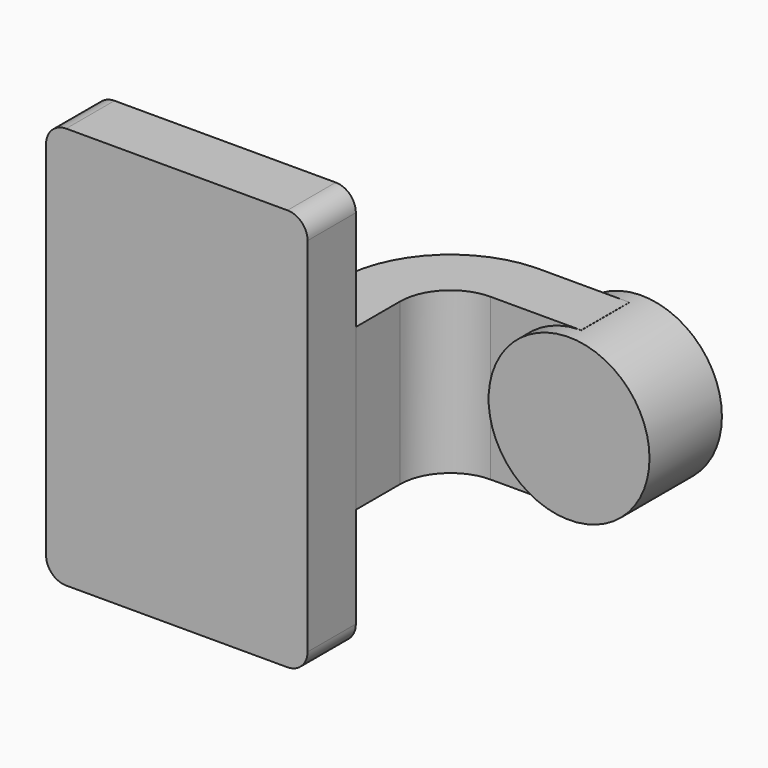
from build123d import *

# Parameters (mm, degrees)
F2_DEPTH = 7.9375
F0_W     = 25.4
F0_H     = 19.05
F3_DEPTH = 25.4
F0_W_2   = 82.55
F0_H_2   = 12.7
F4_DEPTH = 63.5
F5_R     = 6.35


with BuildPart() as f1:
    # F0 (on Top) → F1 (revolve)
    with BuildSketch(Plane.XY):
        Polygon((85.725, 66.675), (85.725, 61.9252), (85.725, 42.8752), (85.725, 38.1), (111.125, 38.1), (111.125, 66.675), align=None)
    revolve(axis=Axis((85.725, 52.3875, 0), (0, -1, 0)))


with BuildPart() as f2:
    # F0 (on Top) → F2 (new body, symmetric)
    with BuildSketch(Plane.XY):
        with BuildLine():
            add(Edge.make_bspline(
                [(-41.275, 9.525), (-38.003408, 26.588724), (-0.569577, 60.609758), (55.863186, 61.901486)],
                knots=[0, 0, 0, 0, 110.665519, 110.665519, 110.665519, 110.665519], degree=3))
            Line((-41.275, 9.525), (22.225, 9.525))
            Line((22.225, 9.525), (22.225, 27.0002))
            ThreePointArc((22.225, 27.0002), (32.003453, 51.236677), (55.863186, 61.901486))
        make_face()
    extrude(amount=F2_DEPTH, both=True)


with BuildPart() as f3:
    # F0 (on Top) → F3 (new body, symmetric)
    with BuildSketch(Plane.XY):
        with BuildLine():
            Line((22.225, 27.0002), (22.225, 9.525))
            Line((22.225, 9.525), (41.275, 9.525))
            Line((41.275, 9.525), (41.275, 27.0002))
            ThreePointArc((41.275, 27.0002), (45.92468, 38.22552), (57.15, 42.8752))
            Line((57.15, 42.8752), (60.325, 42.8752))
            Line((60.325, 42.8752), (60.325, 61.9252))
            Line((60.325, 61.9252), (57.15, 61.9252))
            add(Edge.make_bspline(
                [(55.863186, 61.901486), (56.291034, 61.911279), (56.719974, 61.919191), (57.15, 61.9252)],
                knots=[110.665519, 110.665519, 110.665519, 110.665519, 111.504536, 111.504536, 111.504536, 111.504536], degree=3))
            ThreePointArc((55.863186, 61.901486), (32.003453, 51.236677), (22.225, 27.0002))
        make_face()
        with Locations((73.025, 52.4002)):
            Rectangle(F0_W, F0_H)
    extrude(amount=F3_DEPTH, both=True)


with BuildPart() as f4:
    # F0 (on Top) → F4 (new body, symmetric)
    with BuildSketch(Plane.XY):
        with Locations((0, -3.175)):
            Rectangle(F0_W_2, F0_H_2)
        Polygon((22.225, 9.525), (-41.275, 9.525), (-41.275, 3.175), (41.275, 3.175), (41.275, 9.525), align=None)
    extrude(amount=F4_DEPTH, both=True)

    # F5
    f5_edges = [f4.edges().sort_by_distance(p)[0] for p in [
        (41.275, 0, 63.5),
        (41.275, 0, -63.5),
        (-41.275, 0, -63.5),
        (-41.275, 0, 63.5),
    ]]
    fillet(f5_edges, radius=F5_R)


solid = Compound([f1.part, f2.part, f3.part, f4.part])
